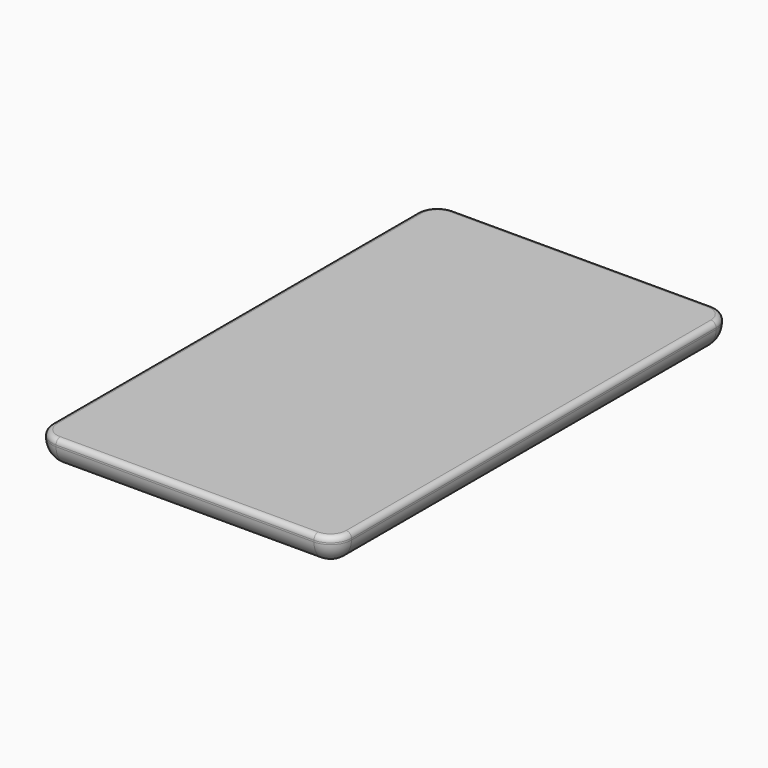
from build123d import *

# Parameters (mm, degrees)
F0_W     = 115
F0_H     = 191
F1_DEPTH = 10.6
F2_R     = 8
F3_R     = 2
F4_W     = 10.75
F4_H     = 4.15
F5_DEPTH = 2
F6_DEPTH = 2
F7_R     = 2


with BuildPart() as f1:
    # F0 (on Top) → F1 (new body)
    with BuildSketch(Plane.XY):
        Rectangle(F0_W, F0_H)
    extrude(amount=F1_DEPTH)

    # F2
    f2_edges = [f1.edges().sort_by_distance(p)[0] for p in [
        (-57.5, 0, 0),
        (0, 95.5, 0),
        (57.5, 0, 0),
        (0, -95.5, 0),
        (-57.5, 95.5, 5.3),
        (57.5, 95.5, 5.3),
        (57.5, -95.5, 5.3),
        (-57.5, -95.5, 5.3),
    ]]
    fillet(f2_edges, radius=F2_R)

    # F3
    f3_edges = [f1.edges().sort_by_distance(p)[0] for p in [
        (0, -95.5, 10.6),
    ]]
    fillet(f3_edges, radius=F3_R)

    # F4 (on face) → F5 (join)
    with BuildSketch(Plane(origin=(0, 95.5, 0), x_dir=(-1, 0, 0), z_dir=(0, 1, 0))):
        with Locations((-24.175, 5.925)):
            Rectangle(F4_W, F4_H)
    extrude(amount=-F5_DEPTH)

    # F4 (on face) → F6 (join)
    with BuildSketch(Plane(origin=(0, 95.5, 0), x_dir=(-1, 0, 0), z_dir=(0, 1, 0))):
        with Locations((-24.175, 5.925)):
            Rectangle(F4_W, F4_H)
    extrude(amount=F6_DEPTH)

    # F7
    f7_edges = [f1.edges().sort_by_distance(p)[0] for p in [
        (18.8, 96.5, 8),
        (18.8, 95.919704, 3.85),
        (29.55, 95.919704, 3.85),
        (29.55, 96.5, 8),
    ]]
    fillet(f7_edges, radius=F7_R)


solid = f1.part
